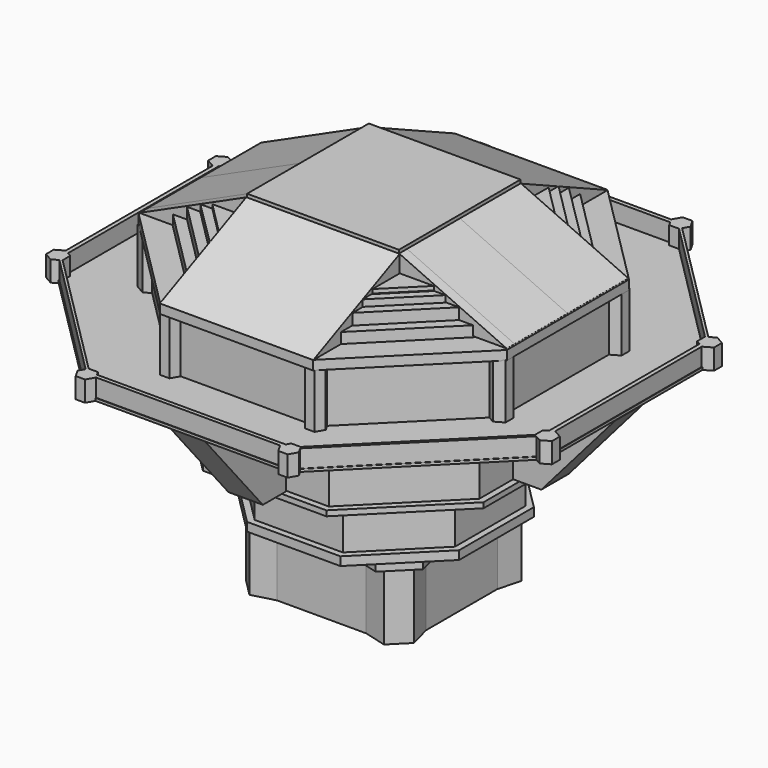
from build123d import *

# Parameters (mm, degrees)
F5_DEPTH  = 25.4
F6_DEPTH  = 3.048
F9_DEPTH  = 3.302
F12_DEPTH = 18.034
F15_DEPTH = 3.302
F18_DEPTH = 30.226
F20_DEPTH = 6.604
F23_DEPTH = 1.016
F25_DEPTH = 6.604
F27_DEPTH = 4.318
F29_DEPTH = 2.032
F31_DEPTH = 7.874
F33_DEPTH = 22.098
F36_DEPTH = 3.556
F38_DEPTH = 29.21
F40_DEPTH = 29.464
F41_DEPTH = 25.4
F43_DEPTH = 7.62
F45_DEPTH = 11.938
F47_DEPTH = 14.478
F50_DEPTH = 1.524
F52_W     = 58.294121176
F52_H     = 58.4129244089
F53_DEPTH = 7.874


with BuildPart() as f5:
    # F2 (on offset) → F5 (new body)
    with BuildSketch(Plane.XY.offset(50.292)):
        Polygon((-32.2327940663, -25.8321565638), (-25.8321565638, -32.2327940663), (-17.0887231349, -29.88999814), (-14.7459272086, -21.1465647111), (-21.1465647111, -14.7459272086), (-29.88999814, -17.0887231349), align=None)
        Polygon((-14.7459272086, -21.1465647111), (-17.0887231349, -29.88999814), (17.0887231349, -29.88999814), (14.7459272086, -21.1465647111), align=None)
        Polygon((-29.88999814, 17.0887231349), (-29.88999814, -17.0887231349), (-21.1465647111, -14.7459272086), (-21.1465647111, 14.7459272086), align=None)
        Polygon((14.7459272086, -21.1465647111), (17.0887231349, -29.88999814), (25.8321565638, -32.2327940663), (32.2327940663, -25.8321565638), (29.88999814, -17.0887231349), (21.1465647111, -14.7459272086), align=None)
        Polygon((-32.2327940663, 25.8321565638), (-29.88999814, 17.0887231349), (-21.1465647111, 14.7459272086), (-14.7459272086, 21.1465647111), (-17.0887231349, 29.88999814), (-25.8321565638, 32.2327940663), align=None)
        Polygon((21.1465647111, 14.7459272086), (21.1465647111, -14.7459272086), (29.88999814, -17.0887231349), (29.88999814, 17.0887231349), align=None)
        Polygon((-17.0887231349, 29.88999814), (-14.7459272086, 21.1465647111), (14.7459272086, 21.1465647111), (17.0887231349, 29.88999814), align=None)
        Polygon((14.7459272086, 21.1465647111), (21.1465647111, 14.7459272086), (29.88999814, 17.0887231349), (32.2327940663, 25.8321565638), (25.8321565638, 32.2327940663), (17.0887231349, 29.88999814), align=None)
    extrude(amount=F5_DEPTH)

    # F4 (on offset) → F6 (join)
    with BuildSketch(Plane.XY.offset(75.692)):
        Polygon((-24.8438008947, 34.9560788946), (-34.9560788946, 24.8438008947), (-31.2547282565, 11.0301722567), (-31.2547282565, -11.0301722567), (-34.9560788946, -24.8438008947), (-24.8438008947, -34.9560788946), (-11.0301722567, -31.2547282565), (11.0301722567, -31.2547282565), (24.8438008947, -34.9560788946), (34.9560788946, -24.8438008947), (31.2547282565, -11.0301722567), (31.2547282565, 11.0301722567), (34.9560788946, 24.8438008947), (24.8438008947, 34.9560788946), (11.0301722567, 31.2547282565), (-11.0301722567, 31.2547282565), align=None)
        Polygon((-26.953196153, 11.1643793959), (-11.1643793959, 26.953196153), (11.1643793959, 26.953196153), (26.953196153, 11.1643793959), (26.953196153, -11.1643793959), (11.1643793959, -26.953196153), (-11.1643793959, -26.953196153), (-26.953196153, -11.1643793959), align=None, mode=Mode.SUBTRACT)
    extrude(amount=F6_DEPTH)

    # F8 (on offset) → F9 (join)
    with BuildSketch(Plane.XY.offset(78.74)):
        Polygon((17.925850547, 43.2768315077), (-17.925850547, 43.2768315077), (-43.2768315077, 17.925850547), (-43.2768315077, -17.925850547), (-17.925850547, -43.2768315077), (17.925850547, -43.2768315077), (43.2768315077, -17.925850547), (43.2768315077, 17.925850547), align=None)
    extrude(amount=F9_DEPTH)

    # F11 (on offset) → F12 (join)
    with BuildSketch(Plane.XY.offset(82.042)):
        Polygon((16.92641148, 40.8639721572), (-16.92641148, 40.8639721572), (-40.8639721572, 16.92641148), (-40.8639721572, -16.92641148), (-16.92641148, -40.8639721572), (16.92641148, -40.8639721572), (40.8639721572, -16.92641148), (40.8639721572, 16.92641148), align=None)
    extrude(amount=F12_DEPTH)

    # F14 (on offset) → F15 (join)
    with BuildSketch(Plane.XY.offset(99.822)):
        Polygon((43.18157956, -17.8863958985), (43.18157956, 17.8863958985), (17.8863958985, 43.18157956), (-17.8863958985, 43.18157956), (-43.18157956, 17.8863958985), (-43.18157956, -17.8863958985), (-17.8863958985, -43.18157956), (17.8863958985, -43.18157956), align=None)
    extrude(amount=F15_DEPTH)


with BuildPart() as f18:
    # F17 (on offset) → F18 (new body)
    with BuildSketch(Plane.XY.offset(103.124)):
        Polygon((54.8596978188, -22.7236308642), (54.8596978188, 22.7236308642), (22.7236308642, 54.8596978188), (-22.7236308642, 54.8596978188), (-54.8596978188, 22.7236308642), (-54.8596978188, -22.7236308642), (-22.7236308642, -54.8596978188), (22.7236308642, -54.8596978188), align=None)
        Polygon((17.9530146768, 43.3424115181), (43.3424115181, 17.9530146768), (43.3424115181, 6.649508346), (43.3424115181, -6.649508346), (43.3424115181, -17.9530146768), (17.9530146768, -43.3424115181), (6.649508346, -43.3424115181), (-6.649508346, -43.3424115181), (-17.9530146768, -43.3424115181), (-43.3424115181, -17.9530146768), (-43.3424115181, -6.649508346), (-43.3424115181, 6.649508346), (-43.3424115181, 17.9530146768), (-17.9530146768, 43.3424115181), (-6.649508346, 43.3424115181), (6.649508346, 43.3424115181), align=None, mode=Mode.SUBTRACT)
    extrude(amount=F18_DEPTH)


with BuildPart() as f20:
    # F19 (on Front) → F20 (new body, symmetric)
    with BuildSketch(Plane.XZ):
        Polygon((55.1670566201, 105.7116016746), (66.1864578724, 105.7116016746), (94.1941067576, 137.8515288234), (55.1670566201, 137.8515288234), align=None)
        Polygon((65.7749138772, 105.2319066856), (66.1864578724, 105.7116016746), (55.1670566201, 105.7116016746), (55.1670566201, 105.2319066856), align=None)
        Polygon((55.1670566201, 105.2319066856), (55.1670566201, 105.7116016746), (55.1670566201, 137.8515288234), (54.8587553203, 137.8515288234), (54.8587553203, 105.2319066856), align=None)
    extrude(amount=F20_DEPTH, both=True)


with BuildPart() as f20b:
    # F19 (on Front) → F20, piece 2 (new body, symmetric)
    with BuildSketch(Plane.XZ):
        Polygon((-94.1941067576, 137.8515288234), (-66.1864578724, 105.7116016746), (-54.5678324997, 105.7116016746), (-54.5678324997, 137.8515288234), align=None)
        Polygon((-54.5678324997, 105.7116016746), (-66.1864578724, 105.7116016746), (-65.768437982, 105.2319066856), (-54.5678324997, 105.2319066856), align=None)
    extrude(amount=F20_DEPTH, both=True)


with BuildPart() as f23:
    # F22 (on offset) → F23 (new body)
    with BuildSketch(Plane.XY.offset(137.922)):
        Polygon((94.1623225808, -39.0033110775), (94.1623225808, 39.0033110775), (39.0033110775, 94.1623225808), (-39.0033110775, 94.1623225808), (-94.1623225808, 39.0033110775), (-94.1623225808, -39.0033110775), (-39.0033110775, -94.1623225808), (39.0033110775, -94.1623225808), align=None)
        Polygon((-55.2747659385, 22.8955577087), (-22.8955577087, 55.2747659385), (22.8955577087, 55.2747659385), (55.2747659385, 22.8955577087), (55.2747659385, -22.8955577087), (22.8955577087, -55.2747659385), (-22.8955577087, -55.2747659385), (-55.2747659385, -22.8955577087), align=None, mode=Mode.SUBTRACT)
    extrude(amount=F23_DEPTH)


with BuildPart() as f25:
    # F24 (on Right) → F25 (new body, symmetric)
    with BuildSketch(Plane.YZ):
        Polygon((-55.2109703422, 137.9220634699), (-94.1621810198, 137.9220634699), (-66.3649961352, 105.155788362), (-55.2109703422, 105.155788362), align=None)
    extrude(amount=F25_DEPTH, both=True)


with BuildPart() as f25b:
    # F24 (on Right) → F25, piece 2 (new body, symmetric)
    with BuildSketch(Plane.YZ):
        Polygon((54.826606065, 105.155788362), (66.3649961352, 105.155788362), (94.1621810198, 137.9220634699), (54.826606065, 137.9220634699), align=None)
    extrude(amount=F25_DEPTH, both=True)


with BuildPart() as f27:
    # F26 (on offset) → F27 (new body)
    with BuildSketch(Plane.XY.offset(137.922)):
        Polygon((23.6066224733, 56.9914281368), (-23.6066224733, 56.9914281368), (-56.9914281368, 23.6066224733), (-56.9914281368, -23.6066224733), (-23.6066224733, -56.9914281368), (23.6066224733, -56.9914281368), (56.9914281368, -23.6066224733), (56.9914281368, 23.6066224733), align=None)
        Polygon((-54.6378716826, 22.6317474702), (-22.6317474702, 54.6378716826), (22.6317474702, 54.6378716826), (54.6378716826, 22.6317474702), (54.6378716826, -22.6317474702), (22.6317474702, -54.6378716826), (-22.6317474702, -54.6378716826), (-54.6378716826, -22.6317474702), align=None, mode=Mode.SUBTRACT)
    extrude(amount=-F27_DEPTH)


with BuildPart() as f29:
    # F28 (on offset) → F29 (new body)
    with BuildSketch(Plane.XY.offset(103.124)):
        Polygon((23.7158175222, 57.2550483048), (-23.7158175222, 57.2550483048), (-57.2550483048, 23.7158175222), (-57.2550483048, -23.7158175222), (-23.7158175222, -57.2550483048), (23.7158175222, -57.2550483048), (57.2550483048, -23.7158175222), (57.2550483048, 23.7158175222), align=None)
    extrude(amount=F29_DEPTH)


with BuildPart() as f31:
    # F30 (on offset) → F31 (new body)
    with BuildSketch(Plane.XY.offset(137.922)):
        Polygon((-41.2994307105, 91.5938710862), (-38.923546922, 93.9697548747), (-35.1759459887, 93.9697548747), (-37.0497464553, 97.2152724862), (-40.7973473886, 97.2152724862), (-42.6711478553, 93.9697548747), align=None)
        Polygon((-35.1759459887, 93.9697548747), (-38.923546922, 93.9697548747), (-41.2994307105, 91.5938710862), (-40.7973473886, 90.7242372632), (-37.0497464553, 90.7242372632), (-36.112846222, 92.346996069), align=None)
        Polygon((35.1759459887, 93.9697548747), (-35.1759459887, 93.9697548747), (-36.112846222, 92.346996069), (36.112846222, 92.346996069), align=None)
        Polygon((-40.7973473886, 90.7242372632), (-41.2994307105, 91.5938710862), (-91.6458660086, 41.2474357881), (-90.795263648, 40.7563402862), align=None)
        Polygon((37.0497464553, 97.2152724862), (35.1759459887, 93.9697548747), (38.923546922, 93.9697548747), (41.2994307105, 91.5938710862), (42.6711478553, 93.9697548747), (40.7973473886, 97.2152724862), align=None)
        Polygon((38.923546922, 93.9697548747), (35.1759459887, 93.9697548747), (36.112846222, 92.346996069), (37.0497464553, 90.7242372632), (40.7973473886, 90.7242372632), (41.2994307105, 91.5938710862), align=None)
        Polygon((-90.795263648, 40.7563402862), (-91.6458660086, 41.2474357881), (-93.9697548747, 38.923546922), (-93.9697548747, 35.2579601935), (-92.3825092614, 36.1743568756), (-90.795263648, 37.0907535577), align=None)
        Polygon((-93.9697548747, 38.923546922), (-91.6458660086, 41.2474357881), (-93.9697548747, 42.5891336505), (-97.1442461014, 40.7563402862), (-97.1442461014, 37.0907535577), (-93.9697548747, 35.2579601935), align=None)
        Polygon((91.5882478024, 41.3050539943), (41.2994307105, 91.5938710862), (40.7973473886, 90.7242372632), (90.7165557146, 40.8017823328), align=None)
        Polygon((-92.3825092614, 36.1743568756), (-93.9697548747, 35.2579601935), (-93.9697548747, -35.2579601935), (-92.3825092614, -36.1743568756), align=None)
        Polygon((93.9697548747, 42.6800177436), (91.5882478024, 41.3050539943), (93.9697548747, 38.923546922), (93.9697548747, 35.1670761004), (97.2229540348, 37.0453115112), (97.2229540348, 40.8017823328), align=None)
        Polygon((93.9697548747, 38.923546922), (91.5882478024, 41.3050539943), (90.7165557146, 40.8017823328), (90.7165557146, 37.0453115112), (92.3431552947, 36.1061938058), (93.9697548747, 35.1670761004), align=None)
        Polygon((-92.3825092614, -36.1743568756), (-93.9697548747, -35.2579601935), (-93.9697548747, -38.923546922), (-91.6458660086, -41.2474357881), (-90.795263648, -40.7563402862), (-90.795263648, -37.0907535577), align=None)
        Polygon((-93.9697548747, -38.923546922), (-93.9697548747, -35.2579601935), (-97.1442461014, -37.0907535577), (-97.1442461014, -40.7563402862), (-93.9697548747, -42.5891336505), (-91.6458660086, -41.2474357881), align=None)
        Polygon((93.9697548747, -35.1670761004), (93.9697548747, 35.1670761004), (92.3431552947, 36.1061938058), (92.3431552947, -36.1061938058), align=None)
        Polygon((-90.795263648, -40.7563402862), (-91.6458660086, -41.2474357881), (-41.1943336624, -91.6989681343), (-40.7144599601, -90.8678025007), align=None)
        Polygon((97.2229540348, -37.0453115112), (93.9697548747, -35.1670761004), (93.9697548747, -38.923546922), (91.5882478024, -41.3050539943), (93.9697548747, -42.6800177436), (97.2229540348, -40.8017823328), align=None)
        Polygon((93.9697548747, -38.923546922), (93.9697548747, -35.1670761004), (92.3431552947, -36.1061938058), (90.7165557146, -37.0453115112), (90.7165557146, -40.8017823328), (91.5882478024, -41.3050539943), align=None)
        Polygon((-40.7144599601, -90.8678025007), (-41.1943336624, -91.6989681343), (-38.923546922, -93.9697548747), (-35.3417208457, -93.9697548747), (-36.2371773648, -92.4187786877), (-37.1326338838, -90.8678025007), align=None)
        Polygon((-38.923546922, -93.9697548747), (-41.1943336624, -91.6989681343), (-42.5053729982, -93.9697548747), (-40.7144599601, -97.0717072487), (-37.1326338838, -97.0717072487), (-35.3417208457, -93.9697548747), align=None)
        Polygon((41.1943336624, -91.6989681343), (91.5882478024, -41.3050539943), (90.7165557146, -40.8017823328), (40.7144599601, -90.8678025007), align=None)
        Polygon((-36.2371773648, -92.4187786877), (-35.3417208457, -93.9697548747), (35.3417208457, -93.9697548747), (36.2371773648, -92.4187786877), align=None)
        Polygon((42.5053729982, -93.9697548747), (41.1943336624, -91.6989681343), (38.923546922, -93.9697548747), (35.3417208457, -93.9697548747), (37.1326338838, -97.0717072487), (40.7144599601, -97.0717072487), align=None)
        Polygon((38.923546922, -93.9697548747), (41.1943336624, -91.6989681343), (40.7144599601, -90.8678025007), (37.1326338838, -90.8678025007), (36.2371773648, -92.4187786877), (35.3417208457, -93.9697548747), align=None)
    extrude(amount=F31_DEPTH)


with BuildPart() as f33:
    # F32 (on offset) → F33 (new body)
    with BuildSketch(Plane.XY.offset(137.922)):
        Polygon((-64.7176596398, -30.3687916144), (-67.2362744808, -27.8501767734), (-67.2362744808, -23.877438976), (-70.676766336, -25.8638078747), (-70.676766336, -29.8365456721), (-67.2362744808, -31.8229145708), align=None)
        Polygon((-67.2362744808, -23.877438976), (-67.2362744808, -27.8501767734), (-64.7176596398, -30.3687916144), (-63.7957826257, -29.8365456721), (-63.7957826257, -25.8638078747), align=None)
        Polygon((-67.2362744808, 23.877438976), (-67.2362744808, -23.877438976), (-63.7957826257, -25.8638078747), (-63.7957826257, 25.8638078747), align=None)
        Polygon((-63.7957826257, -29.8365456721), (-64.7176596398, -30.3687916144), (-30.1431239428, -64.9433273114), (-29.6585671908, -64.1040503979), (-26.0417863559, -64.1040503979), (-63.7957826257, -25.8638078747), align=None)
        Polygon((-70.676766336, 25.8638078747), (-67.2362744808, 23.877438976), (-67.2362744808, 27.8501767734), (-64.7176596398, 30.3687916144), (-67.2362744808, 31.8229145708), (-70.676766336, 29.8365456721), align=None)
        Polygon((-67.2362744808, 27.8501767734), (-67.2362744808, 23.877438976), (-63.7957826257, 25.8638078747), (-63.7957826257, 29.8365456721), (-64.7176596398, 30.3687916144), align=None)
        Polygon((-29.6585671908, -64.1040503979), (-30.1431239428, -64.9433273114), (-27.8501767734, -67.2362744808), (-24.2333959385, -67.2362744808), (-26.0417863559, -64.1040503979), align=None)
        Polygon((-27.8501767734, -67.2362744808), (-30.1431239428, -64.9433273114), (-31.4669576083, -67.2362744808), (-29.6585671908, -70.3684985638), (-26.0417863559, -70.3684985638), (-24.2333959385, -67.2362744808), align=None)
        Polygon((-63.7957826257, 29.8365456721), (-63.7957826257, 25.8638078747), (-26.047580604, 64.1140863299), (-29.6527729428, 64.1140863299), (-30.1357771306, 64.9506741236), (-64.7176596398, 30.3687916144), align=None)
        Polygon((26.0417863559, -64.1040503979), (-26.0417863559, -64.1040503979), (-24.2333959385, -67.2362744808), (24.2333959385, -67.2362744808), align=None)
        Polygon((-29.6527729428, 64.1140863299), (-26.047580604, 64.1140863299), (-24.2449844346, 67.2362744808), (-27.8501767734, 67.2362744808), (-30.1357771306, 64.9506741236), align=None)
        Polygon((-24.2449844346, 67.2362744808), (-26.047580604, 64.1140863299), (26.047580604, 64.1140863299), (24.2449844346, 67.2362744808), align=None)
        Polygon((29.6585671908, -64.1040503979), (26.0417863559, -64.1040503979), (24.2333959385, -67.2362744808), (27.8501767734, -67.2362744808), (30.1431239428, -64.9433273114), align=None)
        Polygon((63.8862773776, -25.9160550441), (26.0417863559, -64.1040503979), (29.6585671908, -64.1040503979), (30.1431239428, -64.9433273114), (64.7839063961, -30.3025448582), (63.8862773776, -29.7842985027), align=None)
        Polygon((-31.4553691121, 67.2362744808), (-30.1357771306, 64.9506741236), (-27.8501767734, 67.2362744808), (-24.2449844346, 67.2362744808), (-26.047580604, 70.3584626317), (-29.6527729428, 70.3584626317), align=None)
        Polygon((24.2449844346, 67.2362744808), (26.047580604, 64.1140863299), (29.6527729428, 64.1140863299), (30.1357771306, 64.9506741236), (27.8501767734, 67.2362744808), align=None)
        Polygon((29.6527729428, 64.1140863299), (26.047580604, 64.1140863299), (63.8862773776, 25.9160550441), (63.8862773776, 29.7842985027), (64.7839063961, 30.3025448582), (30.1357771306, 64.9506741236), align=None)
        Polygon((27.8501767734, -67.2362744808), (24.2333959385, -67.2362744808), (26.0417863559, -70.3684985638), (29.6585671908, -70.3684985638), (31.4669576083, -67.2362744808), (30.1431239428, -64.9433273114), align=None)
        Polygon((67.2362744808, -23.9819333147), (63.8862773776, -25.9160550441), (63.8862773776, -29.7842985027), (64.7839063961, -30.3025448582), (67.2362744808, -27.8501767734), align=None)
        Polygon((63.8862773776, 25.9160550441), (63.8862773776, -25.9160550441), (67.2362744808, -23.9819333147), (67.2362744808, 23.9819333147), align=None)
        Polygon((26.047580604, 70.3584626317), (24.2449844346, 67.2362744808), (27.8501767734, 67.2362744808), (30.1357771306, 64.9506741236), (31.4553691121, 67.2362744808), (29.6527729428, 70.3584626317), align=None)
        Polygon((63.8862773776, 29.7842985027), (63.8862773776, 25.9160550441), (67.2362744808, 23.9819333147), (67.2362744808, 27.8501767734), (64.7839063961, 30.3025448582), align=None)
        Polygon((70.586271584, -25.9160550441), (67.2362744808, -23.9819333147), (67.2362744808, -27.8501767734), (64.7839063961, -30.3025448582), (67.2362744808, -31.718420232), (70.586271584, -29.7842985027), align=None)
        Polygon((67.2362744808, 27.8501767734), (67.2362744808, 23.9819333147), (70.586271584, 25.9160550441), (70.586271584, 29.7842985027), (67.2362744808, 31.718420232), (64.7839063961, 30.3025448582), align=None)
    extrude(amount=F33_DEPTH)

    # F35 (on offset) → F36 (join)
    with BuildSketch(Plane.XY.offset(159.766)):
        Polygon((-29.3014980206, -70.7400739193), (29.3014980206, -70.7400739193), (70.7400739193, -29.3014980206), (70.7400739193, 29.3014980206), (29.3014980206, 70.7400739193), (-29.3014980206, 70.7400739193), (-70.7400739193, 29.3014980206), (-70.7400739193, -29.3014980206), align=None)
        Polygon((43.1800819933, -17.885775586), (17.885775586, -43.1800819933), (-17.885775586, -43.1800819933), (-43.1800819933, -17.885775586), (-43.1800819933, 17.885775586), (-17.885775586, 43.1800819933), (17.885775586, 43.1800819933), (43.1800819933, 17.885775586), align=None, mode=Mode.SUBTRACT)
    extrude(amount=F36_DEPTH)


with BuildPart() as f38:
    # F37 (on Front) → F38 (new body, symmetric)
    with BuildSketch(Plane.XZ):
        Polygon((-70.5232098699, 163.7047976255), (-29.2412428907, 163.7047976255), (-29.2412428907, 182.4053710979), align=None)
    extrude(amount=F38_DEPTH, both=True)


with BuildPart() as f38b:
    # F37 (on Front) → F38, piece 2 (new body, symmetric)
    with BuildSketch(Plane.XZ):
        Polygon((70.5232098699, 163.7047976255), (29.2412428907, 182.4053710979), (29.2412428907, 163.7047976255), align=None)
    extrude(amount=F38_DEPTH, both=True)


with BuildPart() as f40:
    # F39 (on Right) → F40 (new body, symmetric)
    with BuildSketch(Plane.YZ):
        Polygon((-70.7113146782, 163.3098572493), (-29.2050306245, 163.3098572493), (-29.2050306245, 182.3528779947), align=None)
    extrude(amount=F40_DEPTH, both=True)


with BuildPart() as f40b:
    # F39 (on Right) → F40, piece 2 (new body, symmetric)
    with BuildSketch(Plane.YZ):
        Polygon((29.2050306245, 163.3098572493), (70.7113146782, 163.3098572493), (29.2050306245, 182.3528779947), align=None)
    extrude(amount=F40_DEPTH, both=True)


with BuildPart() as f41:
    # F37 (on Front) → F41 (new body)
    with BuildSketch(Plane.XZ):
        Polygon((-70.5232098699, 163.7047976255), (-29.2412428907, 163.7047976255), (-29.2412428907, 182.4053710979), align=None)
    extrude(amount=F41_DEPTH)


with BuildPart() as f41b:
    # F37 (on Front) → F41, piece 2 (new body)
    with BuildSketch(Plane.XZ):
        Polygon((70.5232098699, 163.7047976255), (29.2412428907, 182.4053710979), (29.2412428907, 163.7047976255), align=None)
    extrude(amount=F41_DEPTH)


with BuildPart() as f43:
    # F42 (on offset) → F43 (new body)
    with BuildSketch(Plane.XY.offset(159.766)):
        Polygon((-61.4338479936, 25.4467330277), (-61.4338479936, -25.4467330277), (-25.4467330277, -61.4338479936), (25.4467330277, -61.4338479936), (61.4338479936, -25.4467330277), (61.4338479936, 25.4467330277), (25.4467330277, 61.4338479936), (-25.4467330277, 61.4338479936), align=None)
        Polygon((23.8560266499, 57.5935430825), (57.5935430825, 23.8560266499), (57.5935430825, -23.8560266499), (23.8560266499, -57.5935430825), (-23.8560266499, -57.5935430825), (-57.5935430825, -23.8560266499), (-57.5935430825, 23.8560266499), (-23.8560266499, 57.5935430825), align=None, mode=Mode.SUBTRACT)
    extrude(amount=F43_DEPTH)


with BuildPart() as f45:
    # F44 (on offset) → F45 (new body)
    with BuildSketch(Plane.XY.offset(159.766)):
        Polygon((29.565134001, -51.9886681159), (52.6292300101, -28.8224210946), (47.578693756, -28.8224210946), (29.565134001, -46.8359808496), align=None)
    extrude(amount=F45_DEPTH)


with BuildPart() as f45b:
    # F44 (on offset) → F45, piece 2 (new body)
    with BuildSketch(Plane.XY.offset(159.766)):
        Polygon((47.1437076998, 29.2574071508), (52.2977578901, 29.2574071508), (29.4553963662, 51.9990458279), (29.4553963662, 46.9457184844), align=None)
    extrude(amount=F45_DEPTH)


with BuildPart() as f45c:
    # F44 (on offset) → F45, piece 3 (new body)
    with BuildSketch(Plane.XY.offset(159.766)):
        Polygon((-47.1923735064, 29.2087413442), (-29.4289711934, 46.9721436572), (-29.4289711934, 52.1254339894), (-52.2446132305, 29.2087413442), align=None)
    extrude(amount=F45_DEPTH)


with BuildPart() as f45d:
    # F44 (on offset) → F45, piece 4 (new body)
    with BuildSketch(Plane.XY.offset(159.766)):
        Polygon((-29.4604042616, -46.940710589), (-47.1923735064, -29.2087413442), (-52.2446132305, -29.2087413442), (-29.4604042616, -51.9940600147), align=None)
    extrude(amount=F45_DEPTH)


with BuildPart() as f47:
    # F46 (on offset) → F47 (new body)
    with BuildSketch(Plane.XY.offset(159.766)):
        Polygon((-29.4046904892, 46.9320043921), (-47.2326464951, 29.163826257), (-42.6050163805, 29.163826257), (-29.4046904892, 42.283192277), align=None)
    extrude(amount=F47_DEPTH)


with BuildPart() as f47b:
    # F46 (on offset) → F47, piece 2 (new body)
    with BuildSketch(Plane.XY.offset(159.766)):
        Polygon((-42.6050163805, -29.0926042944), (-47.2326464951, -29.0926042944), (-29.4046904892, -46.7877537012), (-29.4046904892, -42.3743896622), align=None)
    extrude(amount=F47_DEPTH)


with BuildPart() as f47c:
    # F46 (on offset) → F47, piece 3 (new body)
    with BuildSketch(Plane.XY.offset(159.766)):
        Polygon((47.1653267741, 29.3412469327), (29.4532347471, 47.0672994852), (29.4508353041, 42.283192277), (42.8658723831, 29.3412469327), align=None)
    extrude(amount=F47_DEPTH)


with BuildPart() as f47d:
    # F46 (on offset) → F47, piece 4 (new body)
    with BuildSketch(Plane.XY.offset(159.766)):
        Polygon((29.4508353041, -47.127360626), (47.1653267741, -29.4268205762), (42.8658723831, -29.4268205762), (29.4508353041, -42.8312923607), align=None)
    extrude(amount=F47_DEPTH)


with BuildPart() as f50:
    # F49 (on offset) → F50 (new body)
    with BuildSketch(Plane.XY.offset(174.244)):
        Polygon((29.2271516065, 42.524443718), (0, 29.0647316724), (-28.0473588964, 43.7008709044), (-42.8372203994, 28.914447637), (-29.0647316724, 0), (-42.6992889329, -29.0491737622), (-28.6221616858, -43.1295743148), (0, -29.0647316724), (28.8394936868, -42.9089202635), (43.2890886209, -28.4626844624), (29.0647316724, 0), (43.0346157292, 28.7137689936), align=None)
    extrude(amount=F50_DEPTH)


with BuildPart() as f53:
    # F52 (on offset) → F53 (new body)
    with BuildSketch(Plane.XY.offset(175.768)):
        Rectangle(F52_W, F52_H)
    extrude(amount=F53_DEPTH)


solid = Compound([f5.part, f18.part, f20.part, f20b.part, f23.part, f25.part, f25b.part, f27.part, f29.part, f31.part, f33.part, f38.part, f38b.part, f40.part, f40b.part, f41.part, f41b.part, f43.part, f45.part, f45b.part, f45c.part, f45d.part, f47.part, f47b.part, f47c.part, f47d.part, f50.part, f53.part])
